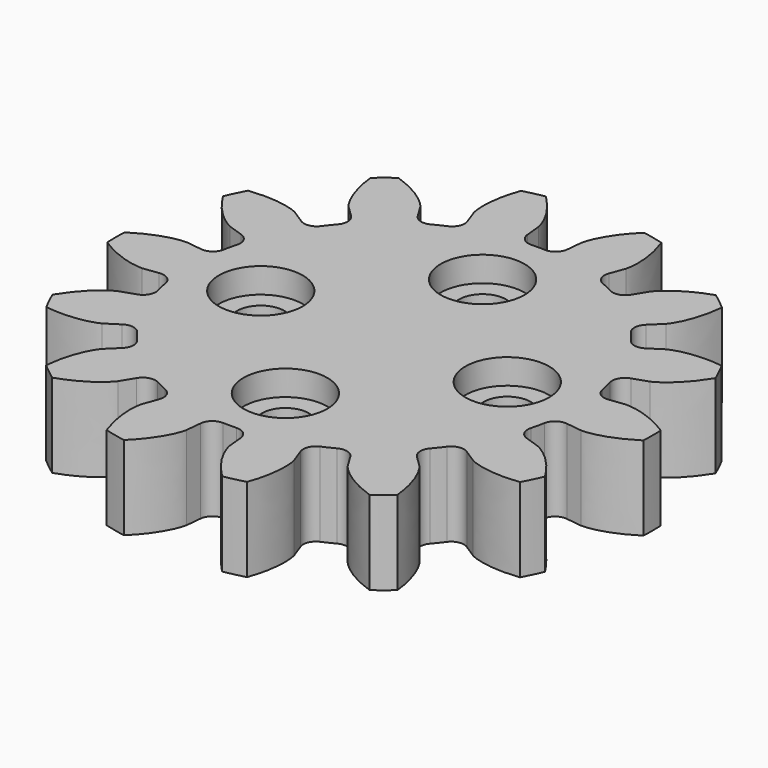
from build123d import *

# Parameters (mm, degrees)
PAD016_DEPTH            = 5
SKETCH016_R             = 1.4
POCKET005_DEPTH         = 5.001
SKETCH017_R             = 2.5
POCKET006_DEPTH         = 2
SKETCH018_R             = 2.5
POCKET007_DEPTH         = 1.5
BODY007_PLACEMENT_ANGLE = 180


with BuildPart() as part:
    # InvoluteGear002 → Pad016 (new body)
    with BuildSketch(Plane.XY):
        with BuildLine():
            Line((12.1611, -1.554104), (13.081146, -1.6702))
            add(Edge.make_bspline(
                [(13.081146, -1.6702), (13.222866, -1.675254), (13.790574, -1.675498), (14.789934, -1.418437), (15.986899, -0.643298)],
                knots=[0, 0, 0, 0, 0, 1, 1, 1, 1, 1], degree=4))
            ThreePointArc((15.986899, -0.643298), (15.999918, 0.001253), (15.986961, 0.645805))
            add(Edge.make_bspline(
                [(15.986961, 0.645805), (14.789934, 1.418437), (13.790574, 1.675498), (13.222866, 1.675254), (13.081146, 1.6702)],
                knots=[0, 0, 0, 0, 0, 1, 1, 1, 1, 1], degree=4))
            Line((13.081146, 1.6702), (12.1611, 1.554104))
            ThreePointArc((12.1611, 1.554104), (11.605364, 1.68218), (11.295182, 2.160754))
            ThreePointArc((11.295182, 2.160754), (11.211671, 2.558991), (11.114124, 2.954024))
            ThreePointArc((11.114124, 2.954024), (11.185943, 3.519787), (11.631073, 3.876304))
            Line((11.631073, 3.876304), (12.510378, 4.170898))
            add(Edge.make_bspline(
                [(12.510378, 4.170898), (12.640256, 4.227835), (13.15185, 4.473934), (13.940707, 5.139144), (14.682815, 6.356864)],
                knots=[0, 0, 0, 0, 0, 1, 1, 1, 1, 1], degree=4))
            ThreePointArc((14.682815, 6.356864), (14.414885, 6.943233), (14.12355, 7.518333))
            add(Edge.make_bspline(
                [(14.12355, 7.518333), (12.709833, 7.695079), (11.697907, 7.493078), (11.186525, 7.246538), (11.061032, 7.180495)],
                knots=[0, 0, 0, 0, 0, 1, 1, 1, 1, 1], degree=4))
            Line((11.061032, 7.180495), (10.282472, 6.676703))
            ThreePointArc((10.282472, 6.676703), (9.726201, 6.550971), (9.239092, 6.847568))
            ThreePointArc((9.239092, 6.847568), (8.991062, 7.170133), (8.731776, 7.483721))
            ThreePointArc((8.731776, 7.483721), (8.551008, 8.024617), (8.79737, 8.538963))
            Line((8.79737, 8.538963), (9.461776, 9.185899))
            add(Edge.make_bspline(
                [(9.461776, 9.185899), (9.554089, 9.293549), (9.90824, 9.737249), (10.330351, 10.678855), (10.47062, 12.097971)],
                knots=[0, 0, 0, 0, 0, 1, 1, 1, 1, 1], degree=4))
            ThreePointArc((10.47062, 12.097971), (9.974806, 12.510021), (9.462796, 12.901763))
            add(Edge.make_bspline(
                [(9.462796, 12.901763), (8.112394, 12.447617), (7.288325, 11.826561), (6.934555, 11.382557), (6.850146, 11.268604)],
                knots=[0, 0, 0, 0, 0, 1, 1, 1, 1, 1], degree=4))
            Line((6.850146, 11.268604), (6.367275, 10.476899))
            ThreePointArc((6.367275, 10.476899), (5.920645, 10.122261), (5.353086, 10.178137))
            ThreePointArc((5.353086, 10.178137), (4.989663, 10.361142), (4.619994, 10.531176))
            ThreePointArc((4.619994, 10.531176), (4.222441, 10.940073), (4.221239, 11.510375))
            Line((4.221239, 11.510375), (4.539154, 12.38152))
            add(Edge.make_bspline(
                [(4.539154, 12.38152), (4.575617, 12.518562), (4.702182, 13.071982), (4.673944, 14.103487), (4.184589, 15.442927)],
                knots=[0, 0, 0, 0, 0, 1, 1, 1, 1, 1], degree=4))
            ThreePointArc((4.184589, 15.442927), (3.559095, 15.599046), (2.92782, 15.72984))
            add(Edge.make_bspline(
                [(2.92782, 15.72984), (1.908196, 14.734751), (1.435201, 13.817649), (1.309112, 13.26412), (1.282504, 13.124829)],
                knots=[0, 0, 0, 0, 0, 1, 1, 1, 1, 1], degree=4))
            Line((1.282504, 13.124829), (1.19096, 12.202017))
            ThreePointArc((1.19096, 12.202017), (0.942432, 11.688714), (0.406835, 11.492801))
            ThreePointArc((0.406835, 11.492801), (0, 11.5), (-0.406835, 11.492801))
            ThreePointArc((-0.406835, 11.492801), (-0.942432, 11.688714), (-1.19096, 12.202017))
            Line((-1.19096, 12.202017), (-1.282504, 13.124829))
            add(Edge.make_bspline(
                [(-1.282504, 13.124829), (-1.309112, 13.26412), (-1.435201, 13.817649), (-1.908196, 14.734751), (-2.93025, 15.729222)],
                knots=[0, 0, 0, 0, 0, 1, 1, 1, 1, 1], degree=4))
            ThreePointArc((-2.93025, 15.729222), (-3.561538, 15.598488), (-4.187047, 15.44243))
            add(Edge.make_bspline(
                [(-4.187047, 15.44243), (-4.673944, 14.103487), (-4.702182, 13.071982), (-4.575617, 12.518562), (-4.539154, 12.38152)],
                knots=[0, 0, 0, 0, 0, 1, 1, 1, 1, 1], degree=4))
            Line((-4.539154, 12.38152), (-4.221239, 11.510375))
            ThreePointArc((-4.221239, 11.510375), (-4.222441, 10.940073), (-4.619994, 10.531176))
            ThreePointArc((-4.619994, 10.531176), (-4.989663, 10.361142), (-5.353086, 10.178137))
            ThreePointArc((-5.353086, 10.178137), (-5.920645, 10.122261), (-6.367275, 10.476899))
            Line((-6.367275, 10.476899), (-6.850146, 11.268604))
            add(Edge.make_bspline(
                [(-6.850146, 11.268604), (-6.934555, 11.382557), (-7.288325, 11.826561), (-8.112394, 12.447617), (-9.464718, 12.900151)],
                knots=[0, 0, 0, 0, 0, 1, 1, 1, 1, 1], degree=4))
            ThreePointArc((-9.464718, 12.900151), (-9.976765, 12.508459), (-10.472618, 12.096457))
            add(Edge.make_bspline(
                [(-10.472618, 12.096457), (-10.330351, 10.678855), (-9.90824, 9.737249), (-9.554089, 9.293549), (-9.461776, 9.185899)],
                knots=[0, 0, 0, 0, 0, 1, 1, 1, 1, 1], degree=4))
            Line((-9.461776, 9.185899), (-8.79737, 8.538963))
            ThreePointArc((-8.79737, 8.538963), (-8.551008, 8.024617), (-8.731776, 7.483721))
            ThreePointArc((-8.731776, 7.483721), (-8.991062, 7.170133), (-9.239092, 6.847568))
            ThreePointArc((-9.239092, 6.847568), (-9.726201, 6.550971), (-10.282472, 6.676703))
            Line((-10.282472, 6.676703), (-11.061032, 7.180495))
            add(Edge.make_bspline(
                [(-11.061032, 7.180495), (-11.186525, 7.246538), (-11.697907, 7.493078), (-12.709833, 7.695079), (-14.124582, 7.516048)],
                knots=[0, 0, 0, 0, 0, 1, 1, 1, 1, 1], degree=4))
            ThreePointArc((-14.124582, 7.516048), (-14.415972, 6.940976), (-14.683959, 6.354632))
            add(Edge.make_bspline(
                [(-14.683959, 6.354632), (-13.940707, 5.139144), (-13.15185, 4.473934), (-12.640256, 4.227835), (-12.510378, 4.170898)],
                knots=[0, 0, 0, 0, 0, 1, 1, 1, 1, 1], degree=4))
            Line((-12.510378, 4.170898), (-11.631073, 3.876304))
            ThreePointArc((-11.631073, 3.876304), (-11.185943, 3.519787), (-11.114124, 2.954024))
            ThreePointArc((-11.114124, 2.954024), (-11.211671, 2.558991), (-11.295182, 2.160754))
            ThreePointArc((-11.295182, 2.160754), (-11.605364, 1.68218), (-12.1611, 1.554104))
            Line((-12.1611, 1.554104), (-13.081146, 1.6702))
            add(Edge.make_bspline(
                [(-13.081146, 1.6702), (-13.222866, 1.675254), (-13.790574, 1.675498), (-14.789934, 1.418437), (-15.986899, 0.643298)],
                knots=[0, 0, 0, 0, 0, 1, 1, 1, 1, 1], degree=4))
            ThreePointArc((-15.986899, 0.643298), (-15.999918, -0.001253), (-15.986961, -0.645805))
            add(Edge.make_bspline(
                [(-15.986961, -0.645805), (-14.789934, -1.418437), (-13.790574, -1.675498), (-13.222866, -1.675254), (-13.081146, -1.6702)],
                knots=[0, 0, 0, 0, 0, 1, 1, 1, 1, 1], degree=4))
            Line((-13.081146, -1.6702), (-12.1611, -1.554104))
            ThreePointArc((-12.1611, -1.554104), (-11.605364, -1.68218), (-11.295182, -2.160754))
            ThreePointArc((-11.295182, -2.160754), (-11.211671, -2.558991), (-11.114124, -2.954024))
            ThreePointArc((-11.114124, -2.954024), (-11.185943, -3.519787), (-11.631073, -3.876304))
            Line((-11.631073, -3.876304), (-12.510378, -4.170898))
            add(Edge.make_bspline(
                [(-12.510378, -4.170898), (-12.640256, -4.227835), (-13.15185, -4.473934), (-13.940707, -5.139144), (-14.682815, -6.356864)],
                knots=[0, 0, 0, 0, 0, 1, 1, 1, 1, 1], degree=4))
            ThreePointArc((-14.682815, -6.356864), (-14.414885, -6.943233), (-14.12355, -7.518333))
            add(Edge.make_bspline(
                [(-14.12355, -7.518333), (-12.709833, -7.695079), (-11.697907, -7.493078), (-11.186525, -7.246538), (-11.061032, -7.180495)],
                knots=[0, 0, 0, 0, 0, 1, 1, 1, 1, 1], degree=4))
            Line((-11.061032, -7.180495), (-10.282472, -6.676703))
            ThreePointArc((-10.282472, -6.676703), (-9.726201, -6.550971), (-9.239092, -6.847568))
            ThreePointArc((-9.239092, -6.847568), (-8.991062, -7.170133), (-8.731776, -7.483721))
            ThreePointArc((-8.731776, -7.483721), (-8.551008, -8.024617), (-8.79737, -8.538963))
            Line((-8.79737, -8.538963), (-9.461776, -9.185899))
            add(Edge.make_bspline(
                [(-9.461776, -9.185899), (-9.554089, -9.293549), (-9.90824, -9.737249), (-10.330351, -10.678855), (-10.47062, -12.097971)],
                knots=[0, 0, 0, 0, 0, 1, 1, 1, 1, 1], degree=4))
            ThreePointArc((-10.47062, -12.097971), (-9.974806, -12.510021), (-9.462796, -12.901763))
            add(Edge.make_bspline(
                [(-9.462796, -12.901763), (-8.112394, -12.447617), (-7.288325, -11.826561), (-6.934555, -11.382557), (-6.850146, -11.268604)],
                knots=[0, 0, 0, 0, 0, 1, 1, 1, 1, 1], degree=4))
            Line((-6.850146, -11.268604), (-6.367275, -10.476899))
            ThreePointArc((-6.367275, -10.476899), (-5.920645, -10.122261), (-5.353086, -10.178137))
            ThreePointArc((-5.353086, -10.178137), (-4.989663, -10.361142), (-4.619994, -10.531176))
            ThreePointArc((-4.619994, -10.531176), (-4.222441, -10.940073), (-4.221239, -11.510375))
            Line((-4.221239, -11.510375), (-4.539154, -12.38152))
            add(Edge.make_bspline(
                [(-4.539154, -12.38152), (-4.575617, -12.518562), (-4.702182, -13.071982), (-4.673944, -14.103487), (-4.184589, -15.442927)],
                knots=[0, 0, 0, 0, 0, 1, 1, 1, 1, 1], degree=4))
            ThreePointArc((-4.184589, -15.442927), (-3.559095, -15.599046), (-2.92782, -15.72984))
            add(Edge.make_bspline(
                [(-2.92782, -15.72984), (-1.908196, -14.734751), (-1.435201, -13.817649), (-1.309112, -13.26412), (-1.282504, -13.124829)],
                knots=[0, 0, 0, 0, 0, 1, 1, 1, 1, 1], degree=4))
            Line((-1.282504, -13.124829), (-1.19096, -12.202017))
            ThreePointArc((-1.19096, -12.202017), (-0.942432, -11.688714), (-0.406835, -11.492801))
            ThreePointArc((-0.406835, -11.492801), (0, -11.5), (0.406835, -11.492801))
            ThreePointArc((0.406835, -11.492801), (0.942432, -11.688714), (1.19096, -12.202017))
            Line((1.19096, -12.202017), (1.282504, -13.124829))
            add(Edge.make_bspline(
                [(1.282504, -13.124829), (1.309112, -13.26412), (1.435201, -13.817649), (1.908196, -14.734751), (2.93025, -15.729222)],
                knots=[0, 0, 0, 0, 0, 1, 1, 1, 1, 1], degree=4))
            ThreePointArc((2.93025, -15.729222), (3.561538, -15.598488), (4.187047, -15.44243))
            add(Edge.make_bspline(
                [(4.187047, -15.44243), (4.673944, -14.103487), (4.702182, -13.071982), (4.575617, -12.518562), (4.539154, -12.38152)],
                knots=[0, 0, 0, 0, 0, 1, 1, 1, 1, 1], degree=4))
            Line((4.539154, -12.38152), (4.221239, -11.510375))
            ThreePointArc((4.221239, -11.510375), (4.222441, -10.940073), (4.619994, -10.531176))
            ThreePointArc((4.619994, -10.531176), (4.989663, -10.361142), (5.353086, -10.178137))
            ThreePointArc((5.353086, -10.178137), (5.920645, -10.122261), (6.367275, -10.476899))
            Line((6.367275, -10.476899), (6.850146, -11.268604))
            add(Edge.make_bspline(
                [(6.850146, -11.268604), (6.934555, -11.382557), (7.288325, -11.826561), (8.112394, -12.447617), (9.464718, -12.900151)],
                knots=[0, 0, 0, 0, 0, 1, 1, 1, 1, 1], degree=4))
            ThreePointArc((9.464718, -12.900151), (9.976765, -12.508459), (10.472618, -12.096457))
            add(Edge.make_bspline(
                [(10.472618, -12.096457), (10.330351, -10.678855), (9.90824, -9.737249), (9.554089, -9.293549), (9.461776, -9.185899)],
                knots=[0, 0, 0, 0, 0, 1, 1, 1, 1, 1], degree=4))
            Line((9.461776, -9.185899), (8.79737, -8.538963))
            ThreePointArc((8.79737, -8.538963), (8.551008, -8.024617), (8.731776, -7.483721))
            ThreePointArc((8.731776, -7.483721), (8.991062, -7.170133), (9.239092, -6.847568))
            ThreePointArc((9.239092, -6.847568), (9.726201, -6.550971), (10.282472, -6.676703))
            Line((10.282472, -6.676703), (11.061032, -7.180495))
            add(Edge.make_bspline(
                [(11.061032, -7.180495), (11.186525, -7.246538), (11.697907, -7.493078), (12.709833, -7.695079), (14.124582, -7.516048)],
                knots=[0, 0, 0, 0, 0, 1, 1, 1, 1, 1], degree=4))
            ThreePointArc((14.124582, -7.516048), (14.415972, -6.940976), (14.683959, -6.354632))
            add(Edge.make_bspline(
                [(14.683959, -6.354632), (13.940707, -5.139144), (13.15185, -4.473934), (12.640256, -4.227835), (12.510378, -4.170898)],
                knots=[0, 0, 0, 0, 0, 1, 1, 1, 1, 1], degree=4))
            Line((12.510378, -4.170898), (11.631073, -3.876304))
            ThreePointArc((11.631073, -3.876304), (11.185943, -3.519787), (11.114124, -2.954024))
            ThreePointArc((11.114124, -2.954024), (11.211671, -2.558991), (11.295182, -2.160754))
            ThreePointArc((11.295182, -2.160754), (11.605364, -1.68218), (12.1611, -1.554104))
        make_face()
    extrude(amount=PAD016_DEPTH)

    # Sketch016 (on Face114 of Pad016) → Pocket005 (cut, through all)
    with BuildSketch(Plane.XY.offset(5)):
        with Locations((0, 7.35)):
            Circle(SKETCH016_R)
        with Locations((-7.35, 0)):
            Circle(SKETCH016_R)
        with Locations((0, -7.35)):
            Circle(SKETCH016_R)
        with Locations((7.35, 0)):
            Circle(SKETCH016_R)
    extrude(amount=-POCKET005_DEPTH, mode=Mode.SUBTRACT)

    # Sketch017 (on Face5 of Pocket005) → Pocket006 (cut)
    with BuildSketch(Plane.XY.offset(5)):
        Circle(SKETCH017_R)
    extrude(amount=-POCKET006_DEPTH, mode=Mode.SUBTRACT)

    # Sketch018 (on Face4 of Pocket006) → Pocket007 (cut)
    with BuildSketch(Plane(origin=(0, 0, 0), x_dir=(1, 0, 0), z_dir=(0, 0, -1))):
        with Locations((0, 7.35)):
            Circle(SKETCH018_R)
        with Locations((-7.35, 0)):
            Circle(SKETCH018_R)
        with Locations((0, -7.35)):
            Circle(SKETCH018_R)
        with Locations((7.35, 0)):
            Circle(SKETCH018_R)
    extrude(amount=-POCKET007_DEPTH, mode=Mode.SUBTRACT)


with BuildPart() as part_1:
    # Body007 placement: moved
    add(part.part.moved(Location((41, -30, 39))).rotate(Axis((41, -30, 39), (1, 0, 0)), BODY007_PLACEMENT_ANGLE))


solid = part_1.part
